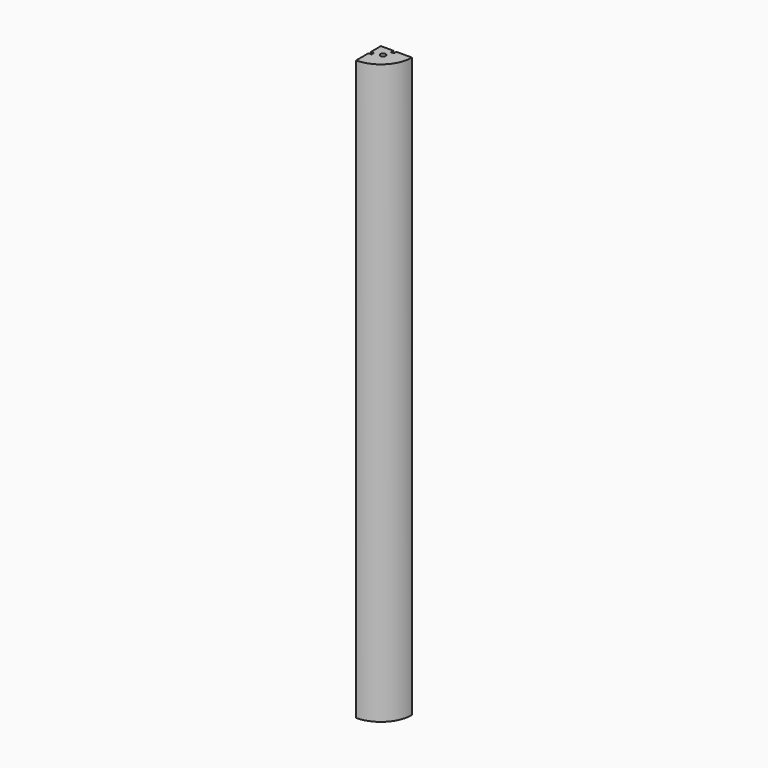
from build123d import *

# Parameters (mm, degrees)
F0_R     = 2.5
F1_DEPTH = 560


with BuildPart() as f1:
    # F0 (on Top) → F1 (new body)
    with BuildSketch(Plane.XY):
        with BuildLine():
            Line((-40.643933, -50.164693), (-52.643933, -50.164693))
            Line((-52.643933, -50.164693), (-52.643933, -62.164693))
            Line((-52.643933, -62.164693), (-49.643933, -62.164693))
            Line((-49.643933, -62.164693), (-49.643933, -65.164693))
            Line((-49.643933, -65.164693), (-52.643933, -65.164693))
            Line((-52.643933, -65.164693), (-52.643933, -80.164693))
            ThreePointArc((-52.643933, -80.164693), (-31.43073, -71.377897), (-22.643933, -50.164693))
            Line((-22.643933, -50.164693), (-37.643933, -50.164693))
            Line((-37.643933, -50.164693), (-37.643933, -53.164693))
            Line((-37.643933, -53.164693), (-40.643933, -53.164693))
            Line((-40.643933, -53.164693), (-40.643933, -50.164693))
        make_face()
        with Locations((-42.264516, -60.54411)):
            Circle(F0_R, mode=Mode.SUBTRACT)
    extrude(amount=F1_DEPTH)


solid = f1.part
